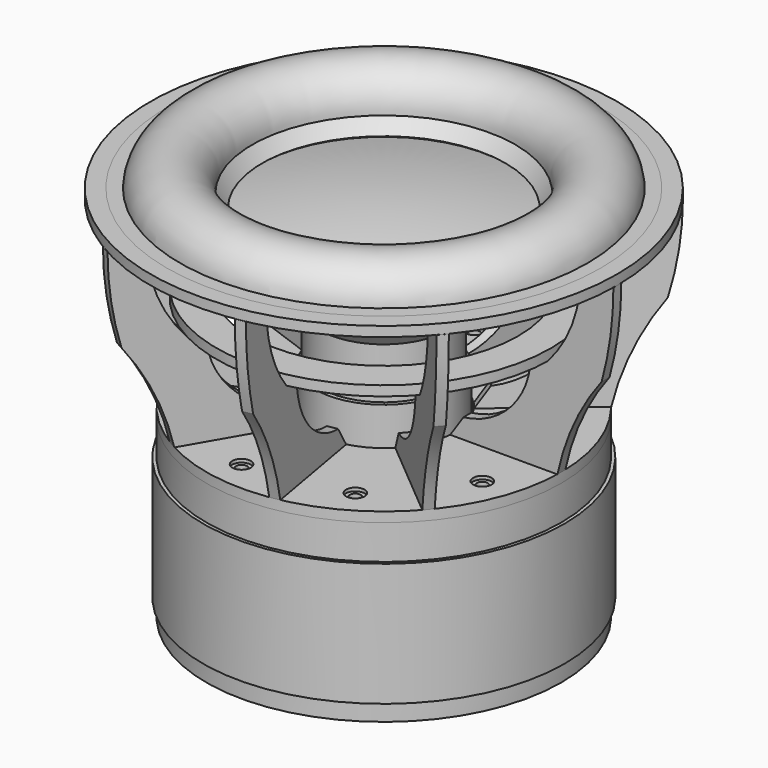
from build123d import *

# Parameters (mm, degrees)
F1_DEPTH       = 3
F1_DEPTH_BACK  = 3
F2_COUNT       = 9
F0_W           = 10
F0_H           = 6
F0_W_2         = 67.2
F0_H_2         = 24.2
F0_W_3         = 2.556
F0_H_3         = 78.232
F0_W_4         = 65.2
F0_H_4         = 21
F6_D           = 6.6
F6_CBORE_D     = 11.25
F6_CBORE_DEPTH = 2


with BuildPart() as f1:
    # F0 (on Front) → F1 (new body, two sides)
    with BuildSketch(Plane.XZ) as f1_sk:
        Polygon((50.8197999452, 12), (42.8, 0), (50.8197999452, 0), align=None)
        with BuildLine():
            Line((50.8197999452, 12), (50.8197999452, 0))
            Line((50.8197999452, 0), (108, 0))
            ThreePointArc((108, 0), (118.185452326, 30.706566658), (134.9364630002, 58.384))
            ThreePointArc((134.9364630002, 58.384), (140.2869306634, 84.5104993857), (142.08125, 111.118804339))
            Line((142.08125, 111.118804339), (122.08125, 111.118804339))
            ThreePointArc((122.08125, 111.118804339), (116.8413734333, 82.8720418531), (101.819, 58.384))
            Line((101.819, 58.384), (91.819, 58.384))
            ThreePointArc((91.819, 58.384), (80.0999836233, 27.4307697117), (50.8197999452, 12))
        make_face()
        with BuildLine():
            Line((50.8197999452, 12), (50.8197999452, 0))
            Line((50.8197999452, 0), (108, 0))
            ThreePointArc((108, 0), (118.185452326, 30.706566658), (134.9364630002, 58.384))
            ThreePointArc((134.9364630002, 58.384), (140.2869306634, 84.5104993857), (142.08125, 111.118804339))
            Line((142.08125, 111.118804339), (122.08125, 111.118804339))
            ThreePointArc((122.08125, 111.118804339), (116.8413734333, 82.8720418531), (101.819, 58.384))
            Line((101.819, 58.384), (91.819, 58.384))
            ThreePointArc((91.819, 58.384), (80.0999836233, 27.4307697117), (50.8197999452, 12))
        make_face()
    extrude(amount=F1_DEPTH)
    extrude(f1_sk.sketch, amount=-F1_DEPTH_BACK)


with BuildPart() as f2_1:
    # F2: instance of F1
    add(f1.part.rotate(Axis((0, 0, 16.1796551943), (0, 0, 1)), 1 * 360 / F2_COUNT))


with BuildPart() as f2_2:
    # F2: instance of F1
    add(f1.part.rotate(Axis((0, 0, 16.1796551943), (0, 0, 1)), 2 * 360 / F2_COUNT))


with BuildPart() as f2_3:
    # F2: instance of F1
    add(f1.part.rotate(Axis((0, 0, 16.1796551943), (0, 0, 1)), 3 * 360 / F2_COUNT))


with BuildPart() as f2_4:
    # F2: instance of F1
    add(f1.part.rotate(Axis((0, 0, 16.1796551943), (0, 0, 1)), 4 * 360 / F2_COUNT))


with BuildPart() as f2_5:
    # F2: instance of F1
    add(f1.part.rotate(Axis((0, 0, 16.1796551943), (0, 0, 1)), 5 * 360 / F2_COUNT))


with BuildPart() as f2_6:
    # F2: instance of F1
    add(f1.part.rotate(Axis((0, 0, 16.1796551943), (0, 0, 1)), 6 * 360 / F2_COUNT))


with BuildPart() as f2_7:
    # F2: instance of F1
    add(f1.part.rotate(Axis((0, 0, 16.1796551943), (0, 0, 1)), 7 * 360 / F2_COUNT))


with BuildPart() as f2_8:
    # F2: instance of F1
    add(f1.part.rotate(Axis((0, 0, 16.1796551943), (0, 0, 1)), 8 * 360 / F2_COUNT))


with BuildPart() as f3:
    # F0 (on Front) → F3 (revolve)
    with BuildSketch(Plane.XZ):
        Polygon((50.8197999452, 0), (42.8, 0), (42.8, -6), (108, -6), (108, 0), align=None)
    revolve(axis=Axis((0, 0, 16.1796551943), (0, 0, 1)))

    # F6 (through all)
    with Locations(Plane.XY):
        with Locations((-90, 0), (84.5723358707, -30.7818128993), (45, -77.9422863406), (-15.62833599, -88.6326977711), (-68.9439998807, -57.8508848718), (84.5723358707, 30.7818128993), (-15.62833599, 88.6326977711), (-68.9439998807, 57.8508848718), (45, 77.9422863406)):
            CounterBoreHole(F6_D / 2, F6_CBORE_D / 2, F6_CBORE_DEPTH)


with BuildPart() as f3b:
    # F0 (on Front) → F3, piece 2 (revolve)
    with BuildSketch(Plane.XZ):
        Polygon((82.08125, 111.118804339), (82.08125, 113.624013127), (75.6659969881, 105.0425122984), (75.0112036281, 104.166613912), (39.1, 56.129221915), (39.1, 53.624013127), align=None)
    revolve(axis=Axis((0, 0, 16.1796551943), (0, 0, 1)))


with BuildPart() as f3c:
    # F0 (on Front) → F3, piece 3 (revolve)
    with BuildSketch(Plane.XZ):
        Polygon((122.08125, 111.118804339), (142.08125, 111.118804339), (142.08125, 117.118804339), (132.08125, 117.118804339), (132.08125, 115.118804339), (122.08125, 115.118804339), align=None)
    revolve(axis=Axis((0, 0, 16.1796551943), (0, 0, 1)))


with BuildPart() as f3d:
    # F0 (on Front) → F3, piece 4 (revolve)
    with BuildSketch(Plane.XZ):
        with Locations((96.819, 61.384)):
            Rectangle(F0_W, F0_H)
        with Locations((86.819, 61.384)):
            Rectangle(F0_W, F0_H)
    revolve(axis=Axis((0, 0, 16.1796551943), (0, 0, 1)))


with BuildPart() as f3e:
    # F0 (on Front) → F3, piece 5 (revolve)
    with BuildSketch(Plane.XZ):
        Polygon((108, -27), (42.8, -27), (42.8, -52.4), (110, -52.4), (110, -27), align=None)
        with Locations((76.4, -64.5)):
            Rectangle(F0_W_2, F0_H_2)
        Polygon((110, -76.6), (42.8, -76.6), (42.8, -102), (108, -102), (110, -102), align=None)
    revolve(axis=Axis((0, 0, 16.1796551943), (0, 0, 1)))


with BuildPart() as f3f:
    # F0 (on Front) → F3, piece 6 (revolve)
    with BuildSketch(Plane.XZ):
        with Locations((40.378, -16.5)):
            Rectangle(F0_W_3, F0_H_3)
    revolve(axis=Axis((0, 0, 16.1796551943), (0, 0, 1)))


with BuildPart() as f4:
    # F0 (on Front) → F4 (revolve)
    with BuildSketch(Plane.XZ):
        Polygon((39.1, 22.616), (39.1, 53.624013127), (39.1, 56.129221915), (38.1, 56.129221915), (38.1, -55.616), (39.1, -55.616), align=None)
    revolve(axis=Axis((0, 0, 16.1796551943), (0, 0, 1)))


with BuildPart() as f4b:
    # F0 (on Front) → F4, piece 2 (revolve)
    with BuildSketch(Plane.XZ):
        with Locations((75.4, -16.5)):
            Rectangle(F0_W_4, F0_H_4)
    revolve(axis=Axis((0, 0, 16.1796551943), (0, 0, 1)))


with BuildPart() as f4c:
    # F0 (on Front) → F4, piece 3 (revolve)
    with BuildSketch(Plane.XZ):
        Polygon((108, -102), (42.8, -102), (37.5, -102), (20, -102), (20, -123), (83.0537039877, -123), (108, -112.7044326116), align=None)
        with BuildLine():
            Line((20, -102), (37.5, -102))
            Line((37.5, -102), (37.5, 3.3759615954))
            Line((37.5, 3.3759615954), (35.5, 3.3759615954))
            ThreePointArc((35.5, 3.3759615954), (29.0575749491, -3.4736547322), (20, -6))
            Line((20, -6), (20, -102))
        make_face()
    revolve(axis=Axis((0, 0, 16.1796551943), (0, 0, 1)))


with BuildPart() as f4d:
    # F0 (on Front) → F4, piece 4 (revolve)
    with BuildSketch(Plane.XZ):
        with BuildLine():
            ThreePointArc((82.08125, 113.624013127), (101.3054026973, 135.1327644717), (122.08125, 115.118804339))
            Line((122.08125, 115.118804339), (132.08125, 115.118804339))
            Line((132.08125, 115.118804339), (132.08125, 117.118804339))
            Line((132.08125, 117.118804339), (128.0311946253, 117.118804339))
            Line((128.0311946253, 117.118804339), (123.9811392507, 117.118804339))
            ThreePointArc((123.9811392507, 117.118804339), (100.6181219852, 137.0908198177), (80.0516536601, 114.2493584227))
            Line((80.0516536601, 114.2493584227), (74.0641287593, 106.2400172786))
            Line((74.0641287593, 106.2400172786), (75.6659969881, 105.0425122984))
            Line((75.6659969881, 105.0425122984), (82.08125, 113.624013127))
        make_face()
    revolve(axis=Axis((0, 0, 16.1796551943), (0, 0, 1)))


with BuildPart() as f4e:
    # F0 (on Front) → F4, piece 5 (revolve)
    with BuildSketch(Plane.XZ):
        with BuildLine():
            Line((75.0112036281, 104.166613912), (75.6659969881, 105.0425122984))
            ThreePointArc((75.6659969881, 105.0425122984), (38.0755343255, 111.471783218), (0, 113.624013127))
            Line((0, 113.624013127), (0, 112.624013127))
            ThreePointArc((0, 112.624013127), (37.7432387032, 110.5029861771), (75.0112036281, 104.166613912))
        make_face()
    revolve(axis=Axis((0, 0, 16.1796551943), (0, 0, 1)))


solid = Compound([f1.part, f2_1.part, f2_2.part, f2_3.part, f2_4.part, f2_5.part, f2_6.part, f2_7.part, f2_8.part, f3.part, f3b.part, f3c.part, f3d.part, f3e.part, f3f.part, f4.part, f4b.part, f4c.part, f4d.part, f4e.part])
